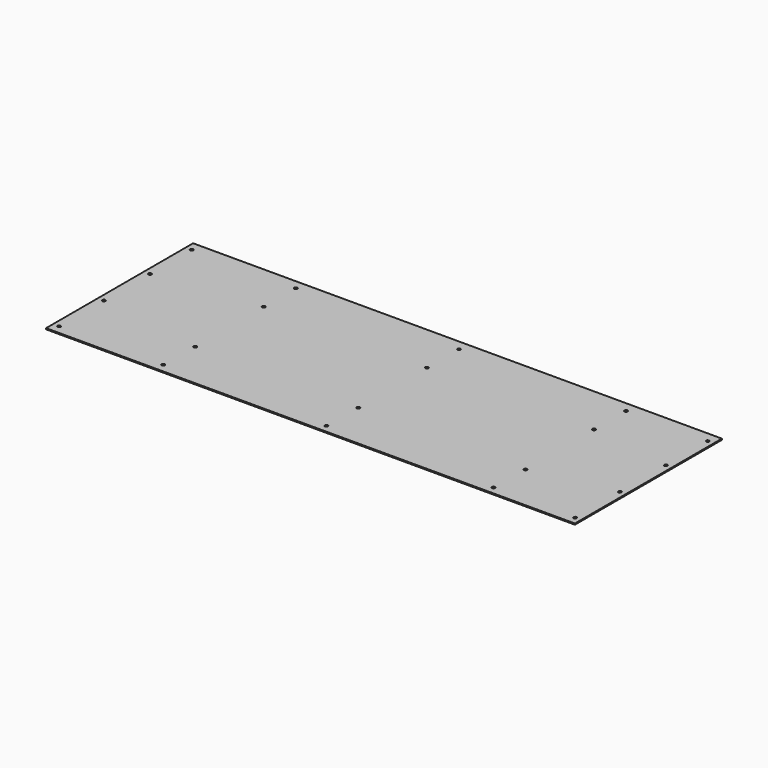
from build123d import *

# Parameters (mm, degrees)
F0_W     = 564
F0_H     = 196
F1_DEPTH = 1.2
F2_D     = 3.3
F2_DEPTH = 5
F2_TIP   = 0.9914200214
F3_D     = 3.3
F3_DEPTH = 5
F3_TIP   = 0.9914200214


with BuildPart() as f1:
    # F0 (on Top) → F1 (new body)
    with BuildSketch(Plane.XY):
        with Locations((-186.0771722794, 33.2998957038)):
            Rectangle(F0_W, F0_H)
    extrude(amount=F1_DEPTH)

    # F2
    with Locations(Plane(origin=(0, 0, 0), x_dir=(1, 0, 0), z_dir=(0, 0, -1))):
        with Locations((-461.5967571735, -121.3424056768)):
            Hole(F2_D / 2, depth=F2_DEPTH)
            with Locations((0, 0, -(F2_DEPTH + F2_TIP / 2))):  # 118° drill point
                Cone(0, F2_D / 2, F2_TIP, mode=Mode.SUBTRACT)

    # F3
    with Locations(Plane(origin=(0, 0, 0), x_dir=(1, 0, 0), z_dir=(0, 0, -1))):
        with Locations((-461.5967571735, -65.577685833), (-461.5967571735, -4.1924929246), (-461.5967571735, 55.4001042962), (-350.59684515, 55.4001042962), (-350.141108036, 13.3732995018), (-350.6921827793, -78.6597281694), (-350.59684515, -121.3424056768), (-175.7135987282, -120.351799798), (-175.8089363575, -77.6691222906), (-175.2578616142, 14.3639053807), (-175.7135987282, 56.390710175), (2.4882517755, 56.390710175), (2.9439888895, 14.3639053807), (2.3929141462, -77.6691222906), (2.4882517755, -120.351799798), (89.5325541496, -120.351798841), (89.5325541496, -64.5870789971), (89.5325541496, -3.2018860888), (89.5325541496, 56.3907111321)):
            Hole(F3_D / 2, depth=F3_DEPTH)
            with Locations((0, 0, -(F3_DEPTH + F3_TIP / 2))):  # 118° drill point
                Cone(0, F3_D / 2, F3_TIP, mode=Mode.SUBTRACT)


solid = f1.part
